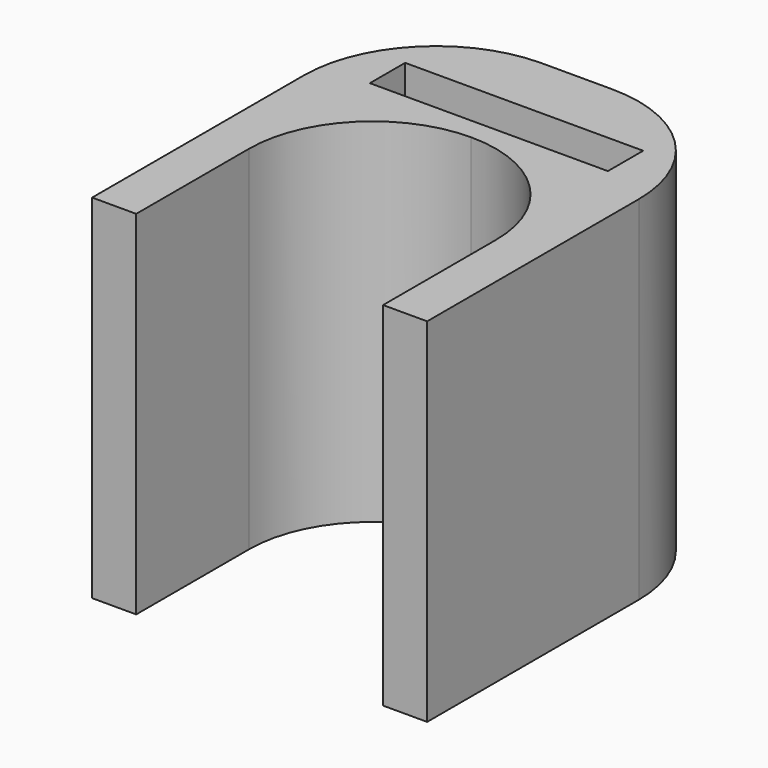
from build123d import *

# Parameters (mm, degrees)
F0_W     = 27
F0_H     = 5
F1_DEPTH = 40


with BuildPart() as f1:
    # F0 (on Top) → F1 (new body)
    with BuildSketch(Plane.XY):
        with BuildLine():
            Line((0, 30), (0, 0))
            Line((0, 0), (5, 0))
            Line((5, 0), (5, 16))
            ThreePointArc((5, 16), (9.100505, 25.899495), (19, 30))
            ThreePointArc((19, 30), (28.899495, 25.899495), (33, 16))
            Line((33, 16), (33, 0))
            Line((33, 0), (38, 0))
            Line((38, 0), (38, 30))
            ThreePointArc((38, 30), (33.606602, 40.606602), (23, 45))
            Line((23, 45), (15, 45))
            ThreePointArc((15, 45), (4.393398, 40.606602), (0, 30))
        make_face()
        with Locations((19, 35)):
            Rectangle(F0_W, F0_H, mode=Mode.SUBTRACT)
    extrude(amount=F1_DEPTH)


solid = f1.part
